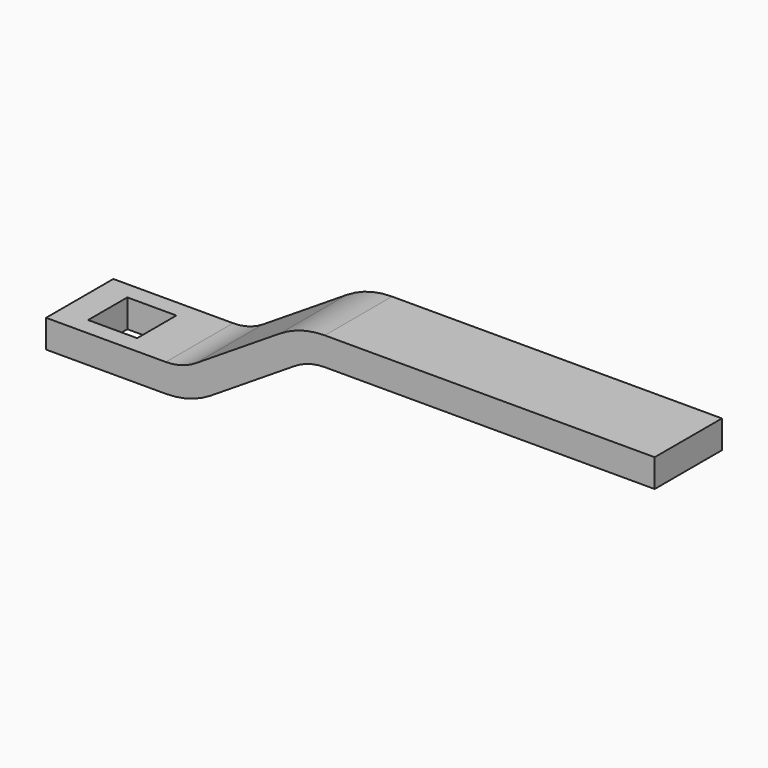
from build123d import *

# Parameters (mm, degrees)
F1_W     = 12
F1_H     = 4
F3_W     = 7
F3_H     = 7
F4_DEPTH = 4


with BuildPart() as f2:
    # F2: sweep along a path in F0
    with BuildLine(Plane.XZ) as f2_path:
        Line((0, 0), (17.0910367709, 0))
        ThreePointArc((17.0910367709, 0), (19.8842191466, 0.3980141525), (22.4550562991, 1.5603735568))
        Line((22.4550562991, 1.5603735568), (34.4241965874, 9.1676654996))
        ThreePointArc((34.4241965874, 9.1676654996), (36.9950337399, 10.3300249038), (39.7882161156, 10.7280390563))
        Line((39.7882161156, 10.7280390563), (86.8792528865, 10.7280390563))
    # F1 (on Right) → F2 (sweep)
    with BuildSketch(Plane.YZ):
        Rectangle(F1_W, F1_H)
    sweep(path=f2_path.line)

    # F3 (on face) → F4 (cut, through all)
    with BuildSketch(Plane.XY.offset(2)):
        with Locations((7.5, 0)):
            Rectangle(F3_W, F3_H)
    extrude(amount=-F4_DEPTH, mode=Mode.SUBTRACT)


solid = f2.part
